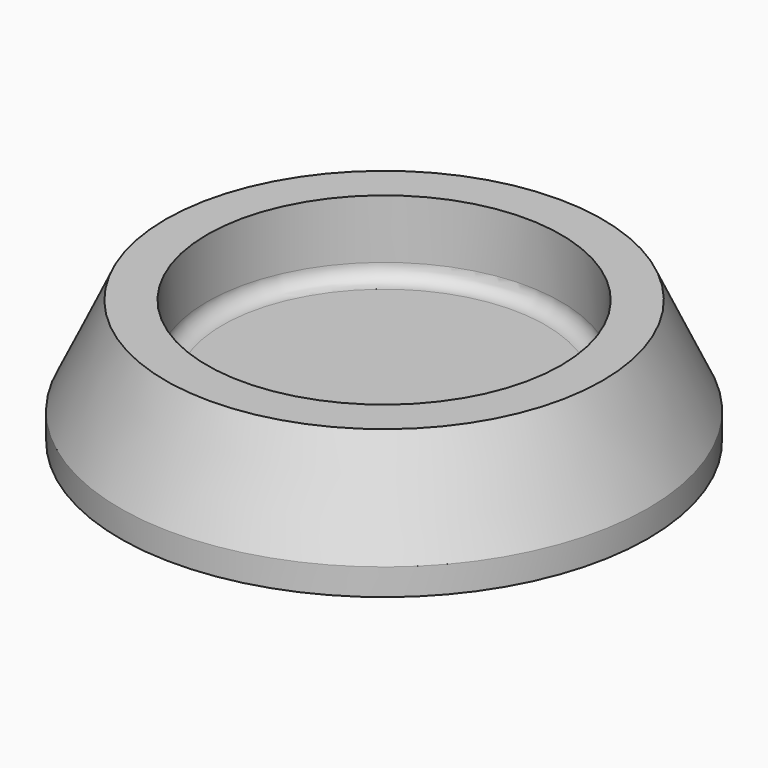
from build123d import *

# Parameters (mm, degrees)
F0_R     = 44.5
F1_DEPTH = 20
F1_TAPER = 25
F2_R     = 28.5
F3_DEPTH = 12
F4_R     = 44.5
F4_R_2   = 42.5
F5_DEPTH = 20.001
F6_R     = 2.5


with BuildPart() as f1:
    # F0 (on Top) → F1 (new body)
    with BuildSketch(Plane.XY):
        Circle(F0_R)
    extrude(amount=F1_DEPTH, taper=F1_TAPER)

    # F2 (on face) → F3 (cut)
    with BuildSketch(Plane.XY.offset(20)):
        Circle(F2_R)
    extrude(amount=-F3_DEPTH, mode=Mode.SUBTRACT)

    # F4 (on face) → F5 (cut, through all)
    with BuildSketch(Plane(origin=(0, 0, 0), x_dir=(1, 0, 0), z_dir=(0, 0, -1))):
        Circle(F4_R)
        Circle(F4_R_2, mode=Mode.SUBTRACT)
    extrude(amount=-F5_DEPTH, mode=Mode.SUBTRACT)

    # F6
    f6_edges = [f1.edges().sort_by_distance(p)[0] for p in [
        (-28.5, 0, 8),
    ]]
    fillet(f6_edges, radius=F6_R)


solid = f1.part
